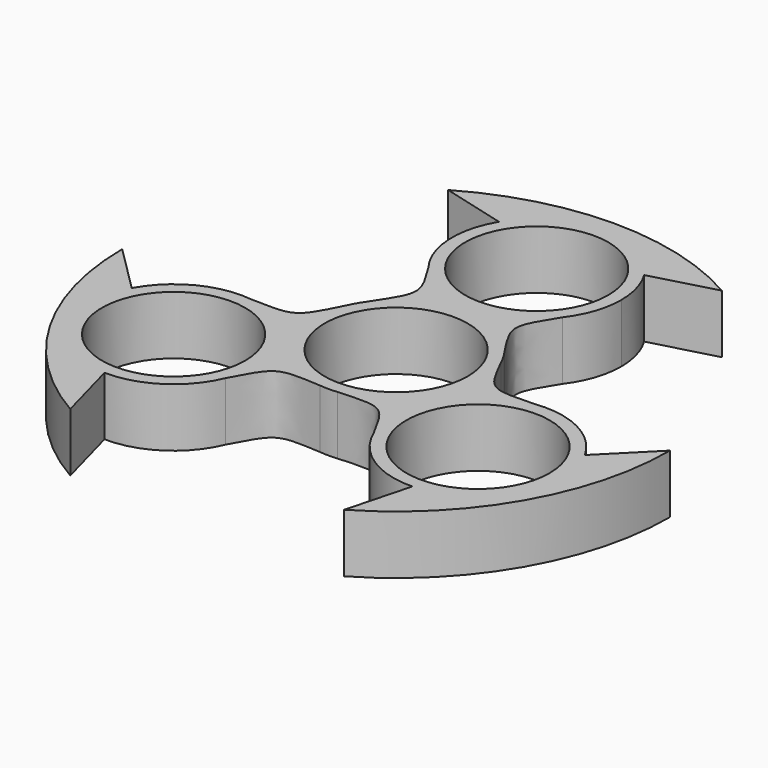
from build123d import *

# Parameters (mm, degrees)
F0_R     = 11
F1_DEPTH = 9


with BuildPart() as f1:
    # F0 (on Top) → F1 (new body)
    with BuildSketch(Plane.XY):
        with BuildLine():
            ThreePointArc((20.917338, 36.420667), (-0.095387, 41.999892), (-21.082553, 36.32528))
            Line((-21.082553, 36.32528), (-11.147982, 33.687487))
            ThreePointArc((-11.147982, 33.687487), (-0.046048, 39.999918), (11.100327, 33.766295))
            Line((11.100327, 33.766295), (20.917338, 36.420667))
        make_face()
        with BuildLine():
            ThreePointArc((11.100327, 33.766295), (-0.046048, 39.999918), (-11.147982, 33.687487))
            ThreePointArc((-11.147982, 33.687487), (-12.979065, 26.262527), (-10.318708, 19.092772))
            ThreePointArc((-10.318708, 19.092772), (0, 14), (10.318708, 19.092772))
            ThreePointArc((10.318708, 19.092772), (12.311442, 22.825267), (13, 27))
            ThreePointArc((13, 27), (12.516075, 30.513955), (11.100327, 33.766295))
        make_face()
        with Locations((0, 27)):
            Circle(F0_R, mode=Mode.SUBTRACT)
        with BuildLine():
            ThreePointArc((10.541277, 7.607988), (0, 13), (-10.541277, 7.607988))
            ThreePointArc((-10.541277, 7.607988), (-11.263215, 6.491532), (-11.867345, 5.307177))
            ThreePointArc((-11.867345, 5.307177), (-11.269129, -6.48126), (-1.380541, -12.926489))
            ThreePointArc((-1.380541, -12.926489), (-0.021921, -12.999982), (1.33694, -12.931071))
            ThreePointArc((1.33694, -12.931071), (9.653502, -8.706888), (13, 0))
            ThreePointArc((13, 0), (12.717983, 2.693124), (11.884167, 5.2694))
            ThreePointArc((11.884167, 5.2694), (11.273526, 6.47361), (10.541277, 7.607988))
        make_face()
        Circle(F0_R, mode=Mode.SUBTRACT)
        with BuildLine():
            ThreePointArc((10.318708, 19.092772), (0, 14), (-10.318708, 19.092772))
            add(Edge.make_bspline(
                [(-10.318708, 19.092772), (-6.756274, 13.352984), (-6.756274, 13.352984), (-10.541277, 7.607988)],
                knots=[0, 0, 0, 0, 11.48694, 11.48694, 11.48694, 11.48694], degree=3))
            ThreePointArc((-10.541277, 7.607988), (0, 13), (10.541277, 7.607988))
            add(Edge.make_bspline(
                [(10.318708, 19.092772), (6.756274, 13.352984), (6.756274, 13.352984), (10.541277, 7.607988)],
                knots=[0, 0, 0, 0, 11.48694, 11.48694, 11.48694, 11.48694], degree=3))
        make_face()
        with BuildLine():
            ThreePointArc((-23.600229, -26.49818), (-34.617921, -20.039838), (-34.792633, -7.269983))
            Line((-34.792633, -7.269983), (-41.999892, -0.095387))
            ThreePointArc((-41.999892, -0.095387), (-36.32528, -21.082553), (-20.917338, -36.420667))
            Line((-20.917338, -36.420667), (-23.600229, -26.49818))
        make_face()
        with BuildLine():
            ThreePointArc((-10.382686, -13.5), (-13.632277, -4.901771), (-21.75646, -0.602117))
            ThreePointArc((-21.75646, -0.602117), (-29.302602, -1.926125), (-34.792633, -7.269983))
            ThreePointArc((-34.792633, -7.269983), (-34.617921, -20.039838), (-23.600229, -26.49818))
            ThreePointArc((-23.600229, -26.49818), (-16.262013, -24.376398), (-11.382384, -18.499275))
            ThreePointArc((-11.382384, -18.499275), (-10.63506, -16.049124), (-10.382686, -13.5))
        make_face()
        with Locations((-23.382686, -13.5)):
            Circle(F0_R, mode=Mode.SUBTRACT)
        with BuildLine():
            ThreePointArc((-1.380541, -12.926489), (-11.269129, -6.48126), (-11.867345, 5.307177))
            add(Edge.make_bspline(
                [(-21.75646, -0.602117), (-15.004441, -0.817382), (-14.950155, -0.843229), (-11.867345, 5.307177)],
                knots=[0, 0, 0, 0, 11.520172, 11.520172, 11.520172, 11.520172], degree=3))
            ThreePointArc((-21.75646, -0.602117), (-13.632277, -4.901771), (-10.382686, -13.5))
            ThreePointArc((-10.382686, -13.5), (-10.63506, -16.049124), (-11.382384, -18.499275))
            add(Edge.make_bspline(
                [(-11.382384, -18.499275), (-8.192799, -12.544222), (-8.248355, -12.521077), (-1.380541, -12.926489)],
                knots=[0, 0, 0, 0, 11.449576, 11.449576, 11.449576, 11.449576], degree=3))
        make_face()
        with BuildLine():
            add(Edge.make_bspline(
                [(21.711494, -0.607866), (14.959475, -0.823131), (14.966977, -0.881006), (11.884167, 5.2694)],
                knots=[0, 0, 0, 0, 11.450704, 11.450704, 11.450704, 11.450704], degree=3))
            ThreePointArc((11.884167, 5.2694), (12.717983, 2.693124), (13, 0))
            ThreePointArc((13, 0), (9.653502, -8.706888), (1.33694, -12.931071))
            add(Edge.make_bspline(
                [(11.398941, -18.538835), (8.209356, -12.583782), (8.204753, -12.52566), (1.33694, -12.931071)],
                knots=[0, 0, 0, 0, 11.519153, 11.519153, 11.519153, 11.519153], degree=3))
            ThreePointArc((11.398941, -18.538835), (12.113514, -7.018814), (21.711494, -0.607866))
        make_face()
        with BuildLine():
            ThreePointArc((34.748211, -7.189308), (29.241344, -1.894995), (21.711494, -0.607866))
            ThreePointArc((21.711494, -0.607866), (12.113514, -7.018814), (11.398941, -18.538835))
            ThreePointArc((11.398941, -18.538835), (16.318575, -24.413219), (23.692306, -26.496312))
            ThreePointArc((23.692306, -26.496312), (32.683897, -22.582261), (36.382686, -13.5))
            ThreePointArc((36.382686, -13.5), (35.967435, -10.240539), (34.748211, -7.189308))
        make_face()
        with Locations((23.382686, -13.5)):
            Circle(F0_R, mode=Mode.SUBTRACT)
        with BuildLine():
            Line((41.999892, 0.095387), (34.748211, -7.189308))
            ThreePointArc((34.748211, -7.189308), (35.967435, -10.240539), (36.382686, -13.5))
            ThreePointArc((36.382686, -13.5), (32.683897, -22.582261), (23.692306, -26.496312))
            Line((23.692306, -26.496312), (21.082553, -36.32528))
            ThreePointArc((21.082553, -36.32528), (36.420667, -20.917338), (41.999892, 0.095387))
        make_face()
    extrude(amount=F1_DEPTH)


solid = f1.part
